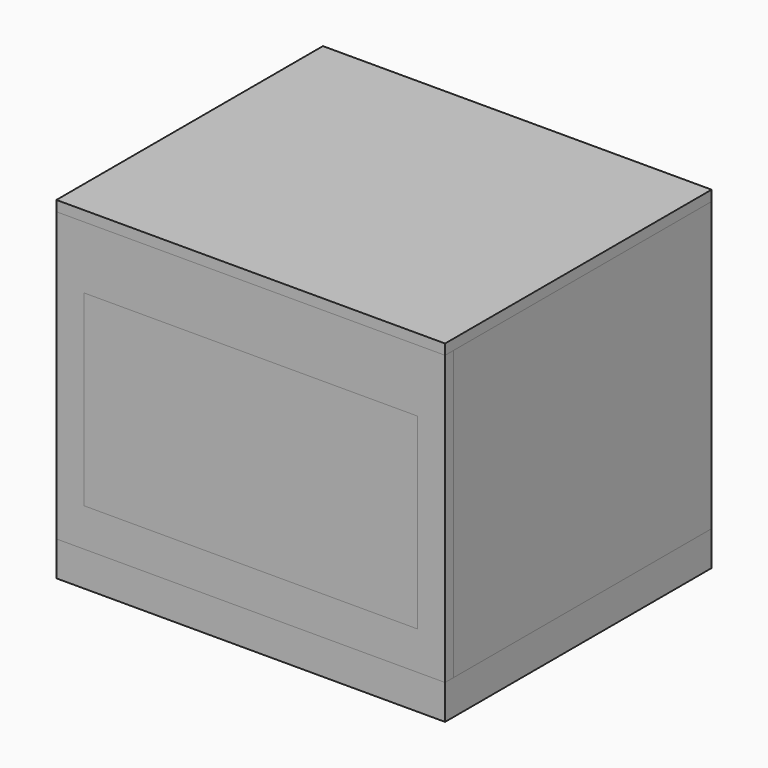
from build123d import *

# Parameters (mm, degrees)
F0_W      = 711.2
F0_H      = 609.6
F1_DEPTH  = 609.6
F2_W      = 711.2
F2_H      = 609.6
F3_DEPTH  = 19.05
F4_W      = 590.55
F4_H      = 527.05
F5_DEPTH  = 19.05
F7_W      = 711.2
F7_H      = 527.05
F8_DEPTH  = 19.05
F9_W      = 673.1
F9_H      = 527.05
F10_DEPTH = 19.05
F12_W     = 685.8000246048
F12_H     = 584.2000246048
F12_W_2   = 673.1
F12_H_2   = 571.5
F13_DEPTH = 19.05
F15_W     = 685.8
F15_H     = 584.2
F16_DEPTH = 19.05
F17_W     = 609.6
F17_H     = 342.9
F18_DEPTH = 19.05


with BuildPart() as f1:
    # F0 (on Top) → F1 (new body)
    with BuildSketch(Plane.XY):
        Rectangle(F0_W, F0_H)
    extrude(amount=F1_DEPTH)


with BuildPart() as f3:
    # F2 (on face) → F3 (new body)
    with BuildSketch(Plane.XY.offset(609.6)):
        Rectangle(F2_W, F2_H)
    extrude(amount=-F3_DEPTH)


with BuildPart() as f5:
    # F4 (on face) → F5 (new body)
    with BuildSketch(Plane.YZ.offset(355.6)):
        with Locations((9.525, 327.025)):
            Rectangle(F4_W, F4_H)
    extrude(amount=-F5_DEPTH)


with BuildPart() as f6_1:
    # F6: instance of F5
    add(f5.part.mirror(Plane.YZ))


with BuildPart() as f8:
    # F7 (on face) → F8 (new body)
    with BuildSketch(Plane.XZ.offset(304.8)):
        with Locations((0, 327.025)):
            Rectangle(F7_W, F7_H)
    extrude(amount=-F8_DEPTH)

    # F17 (on face) → F18 (cut, through all)
    with BuildSketch(Plane(origin=(0, -285.75, 0), x_dir=(-1, 0, 0), z_dir=(0, 1, 0))):
        with Locations((0, 304.8)):
            Rectangle(F17_W, F17_H)
    extrude(amount=-F18_DEPTH, mode=Mode.SUBTRACT)


with BuildPart() as f10:
    # F9 (on face) → F10 (new body)
    with BuildSketch(Plane(origin=(0, 304.8, 0), x_dir=(-1, 0, 0), z_dir=(0, 1, 0))):
        with Locations((0, 327.025)):
            Rectangle(F9_W, F9_H)
    extrude(amount=-F10_DEPTH)


with BuildPart() as f13:
    # F12 (on offset) → F13 (new body)
    with BuildSketch(Plane.XY.offset(76.2)):
        Rectangle(F12_W, F12_H)
        Rectangle(F12_W_2, F12_H_2, mode=Mode.SUBTRACT)
        Rectangle(F12_W_2, F12_H_2)
    extrude(amount=F13_DEPTH)


with BuildPart() as f16:
    # F15 (on offset) → F16 (new body)
    with BuildSketch(Plane(origin=(0, 0, 514.35), x_dir=(1, 0, 0), z_dir=(0, 0, -1))):
        Rectangle(F15_W, F15_H)
    extrude(amount=F16_DEPTH)


with BuildPart() as f10_1:
    add(f10.part)

    # F19: cut F13
    add(f13.part, mode=Mode.SUBTRACT)

    # F20: cut F16
    add(f16.part, mode=Mode.SUBTRACT)


with BuildPart() as f6_1_1:
    add(f6_1.part)

    # F19: cut F13
    add(f13.part, mode=Mode.SUBTRACT)

    # F20: cut F16
    add(f16.part, mode=Mode.SUBTRACT)


with BuildPart() as f8_1:
    add(f8.part)

    # F19: cut F13
    add(f13.part, mode=Mode.SUBTRACT)

    # F20: cut F16
    add(f16.part, mode=Mode.SUBTRACT)


with BuildPart() as f5_1:
    add(f5.part)

    # F19: cut F13
    add(f13.part, mode=Mode.SUBTRACT)

    # F20: cut F16
    add(f16.part, mode=Mode.SUBTRACT)


solid = Compound([f1.part, f3.part, f13.part, f16.part, f10_1.part, f6_1_1.part, f8_1.part, f5_1.part])
